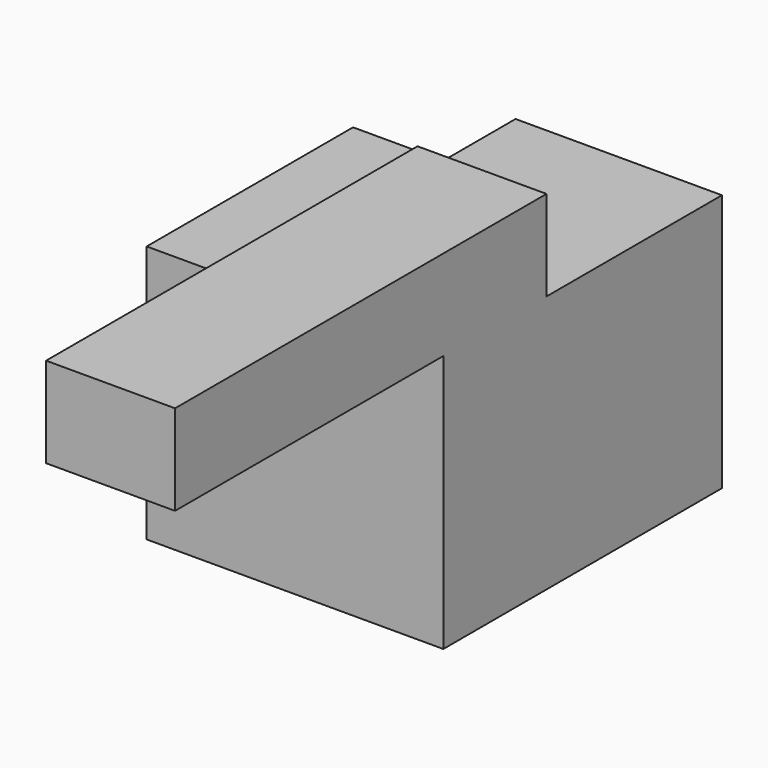
from build123d import *

# Parameters (mm, degrees)
F0_W     = 91.44
F0_H     = 17.78
F1_DEPTH = 25.4
F2_W     = 25.4
F2_H     = 25.4
F3_DEPTH = 50.8
F4_W     = 25.4
F4_H     = 50.8
F5_DEPTH = 43.18
F7_DEPTH = 15.24
F8_W     = 50.8
F8_H     = 50.8
F9_DEPTH = 17.78


with BuildPart() as f1:
    # F0 (on Right) → F1 (new body)
    with BuildSketch(Plane.YZ):
        with Locations((-32.5557654617, 24.2135534063)):
            Rectangle(F0_W, F0_H)
    extrude(amount=F1_DEPTH)

    # F2 (on face) → F3 (join)
    with BuildSketch(Plane(origin=(0, 0, 15.3235534063), x_dir=(1, 0, 0), z_dir=(0, 0, -1))):
        with Locations((12.7, -0.4642345383)):
            Rectangle(F2_W, F2_H)
    extrude(amount=F3_DEPTH)

    # F4 (on face) → F5 (join)
    with BuildSketch(Plane(origin=(0, 13.1642345383, 0), x_dir=(-1, 0, 0), z_dir=(0, 1, 0))):
        with Locations((-12.7, -10.0764465937)):
            Rectangle(F4_W, F4_H)
    extrude(amount=F5_DEPTH)

    # F6 (on face) → F7 (join)
    with BuildSketch(Plane(origin=(0, 0, 0), x_dir=(0, -1, 0), z_dir=(-1, 0, 0))):
        Polygon((12.2357654617, 15.3235534063), (-13.1642345383, 15.3235534063), (-56.3442345383, 15.3235534063), (-56.3442345383, -35.4764465937), (12.2357654617, -35.4764465937), align=None)
    extrude(amount=F7_DEPTH)

    # F8 (on face) → F9 (join)
    with BuildSketch(Plane(origin=(-15.24, 0, 0), x_dir=(0, -1, 0), z_dir=(-1, 0, 0))):
        with Locations((-13.1642345383, -10.0764465937)):
            Rectangle(F8_W, F8_H)
    extrude(amount=F9_DEPTH)


solid = f1.part
